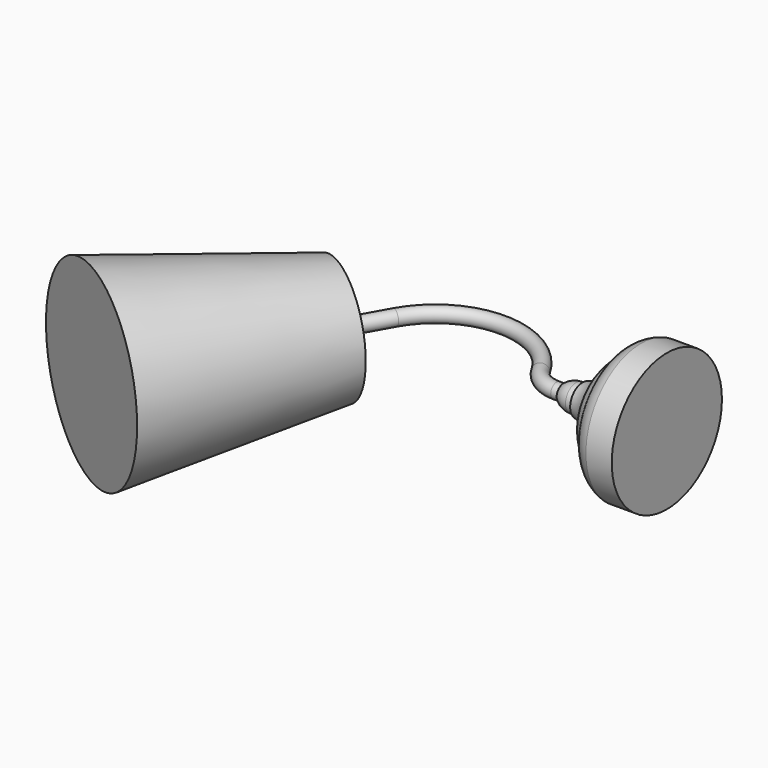
from build123d import *

# Parameters (mm, degrees)
F3_R = 5.4485927956


with BuildPart() as f1:
    # F0 (on Top) → F1 (revolve)
    with BuildSketch(Plane.XY):
        with BuildLine():
            Line((-76.2, 0), (0, 0))
            Line((0, 0), (0, 50.8))
            Line((0, 50.8), (-19.05, 50.8))
            ThreePointArc((-19.05, 50.8), (-27.6462880029, 46.2224168032), (-33.02, 38.1))
            ThreePointArc((-33.02, 38.1), (-39.9542899622, 32.847360966), (-44.45, 25.4))
            ThreePointArc((-44.45, 25.4), (-51.745724834, 16.4260103223), (-62.1764473617, 11.43))
            Line((-62.1764473617, 11.43), (-62.1764473617, 9.7969081253))
            Line((-62.1764473617, 9.7969081253), (-66.9098570943, 9.7969081253))
            ThreePointArc((-66.9098570943, 9.7969081253), (-71.8643482597, 8.9074053149), (-76.2, 6.35))
            Line((-76.2, 6.35), (-76.2, 0))
        make_face()
    revolve(axis=Axis((-38.1, 0, 0), (-1, 0, 0)))

    # F4: sweep along a path in F2
    with BuildLine(Plane.XY) as f4_path:
        Line((-76.2, 0), (-81.28, 0))
        ThreePointArc((-81.28, 0), (-94.1180458057, 3.4832351865), (-103.4349945345, 12.9775921345))
        ThreePointArc((-103.4349945345, 12.9775921345), (-157.1638386083, 44.45), (-210.892682682, 12.9775921345))
        Line((-210.892682682, 12.9775921345), (-228.6, -18.6028810433))
    # F3 (on face) → F4 (sweep)
    with BuildSketch(Plane(origin=(-76.2, 0, 0), x_dir=(0, -1, 0), z_dir=(-1, 0, 0))):
        Circle(F3_R)
    sweep(path=f4_path.line)

    # F5 (on Top) → F6 (revolve)
    with BuildSketch(Plane.XY):
        Polygon((-189.8287595647, -40.3420948079), (-228.6, -18.6028810433), (-303.134447193, -151.5328482502), (-242.2082122232, -185.6944698804), align=None)
    revolve(axis=Axis((-265.8672235965, -85.0678646468, 0), (-0.4890711758, -0.8722438793, 0)))


solid = f1.part
